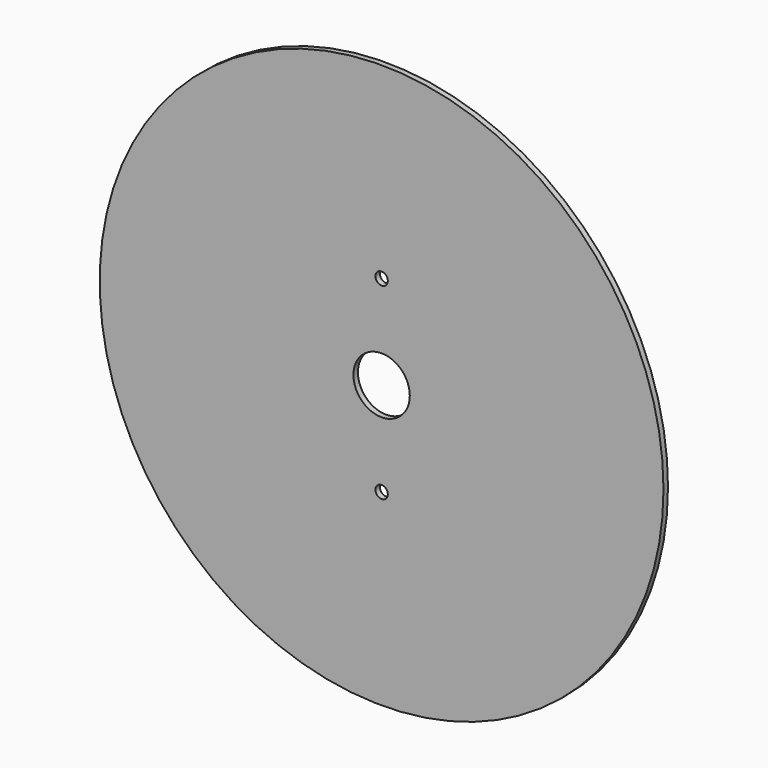
from build123d import *

# Parameters (mm, degrees)
F0_R     = 150
F0_R_2   = 15
F1_DEPTH = 3
F3_D     = 6.6
F3_DEPTH = 14.5
F3_TIP   = 1.9828400428


with BuildPart() as f1:
    # F0 (on Front) → F1 (new body)
    with BuildSketch(Plane.XZ):
        Circle(F0_R)
        Circle(F0_R_2, mode=Mode.SUBTRACT)
    extrude(amount=F1_DEPTH)

    # F3
    with Locations(Plane.XZ.offset(3)):
        with Locations((0, 50), (0, -50)):
            Hole(F3_D / 2, depth=F3_DEPTH)
            with Locations((0, 0, -(F3_DEPTH + F3_TIP / 2))):  # 118° drill point
                Cone(0, F3_D / 2, F3_TIP, mode=Mode.SUBTRACT)


solid = f1.part
